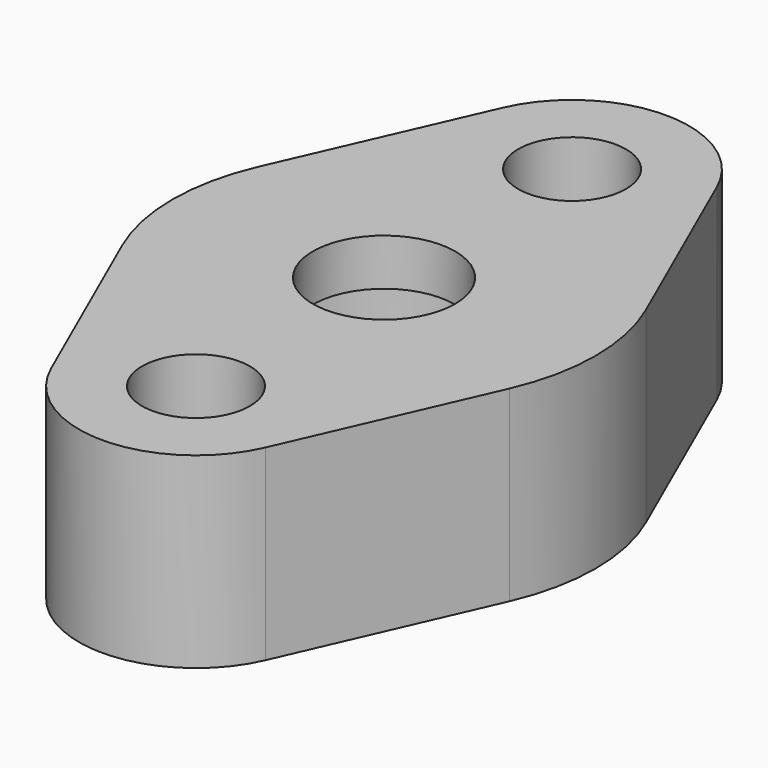
from build123d import *

# Parameters (mm, degrees)
F0_R     = 1.8288
F0_R_2   = 2.4125
F1_DEPTH = 6.35
F3_R     = 4
F4_DEPTH = 4.7625


with BuildPart() as f1:
    # F0 (on Top) → F1 (new body)
    with BuildSketch(Plane.XY):
        with BuildLine():
            Line((6.568602, 2.886882), (3.63333, 9.565588))
            ThreePointArc((3.63333, 9.565588), (0, 11.9375), (-3.63333, 9.565588))
            Line((-3.63333, 9.565588), (-6.568602, 2.886882))
            ThreePointArc((-6.568602, 2.886882), (-7.175, 0), (-6.568602, -2.886882))
            Line((-6.568602, -2.886882), (-3.63333, -9.565588))
            ThreePointArc((-3.63333, -9.565588), (0, -11.9375), (3.63333, -9.565588))
            Line((3.63333, -9.565588), (6.568602, -2.886882))
            ThreePointArc((6.568602, -2.886882), (7.175, 0), (6.568602, 2.886882))
        make_face()
        with Locations((0, -7.96875)):
            Circle(F0_R, mode=Mode.SUBTRACT)
        Circle(F0_R_2, mode=Mode.SUBTRACT)
        with Locations((0, 7.96875)):
            Circle(F0_R, mode=Mode.SUBTRACT)
    extrude(amount=F1_DEPTH)

    # F3 (on face) → F4 (cut, through all)
    with BuildSketch(Plane(origin=(0, 0, 0), x_dir=(1, 0, 0), z_dir=(0, 0, -1))):
        Circle(F3_R)
    extrude(amount=-F4_DEPTH, mode=Mode.SUBTRACT)


solid = f1.part
